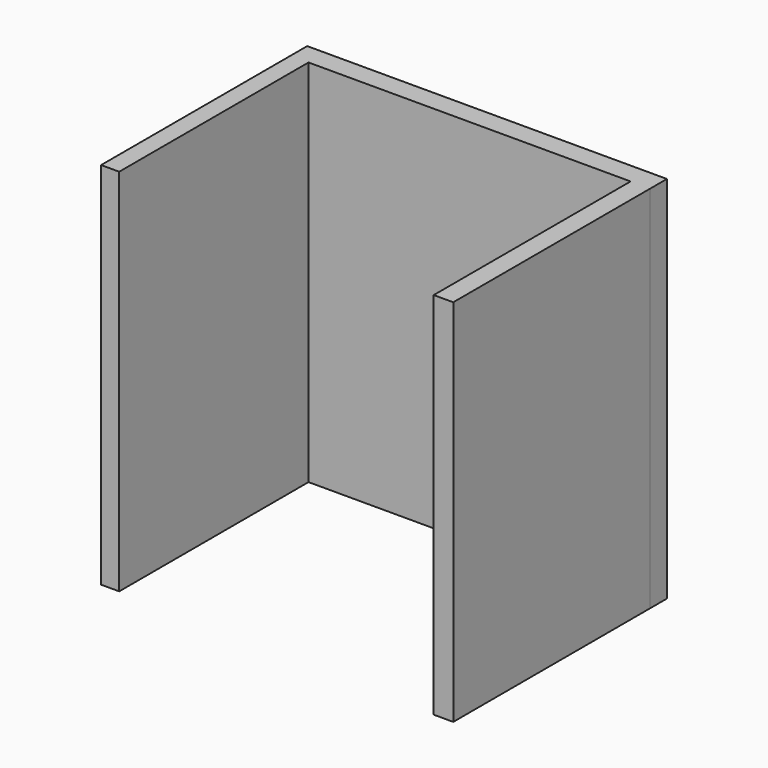
from build123d import *

# Parameters (mm, degrees)
F0_W     = 4.897386
F0_H     = 64.057838
F0_W_2   = 5.289175
F0_H_2   = 66.604478
F1_DEPTH = 100


with BuildPart() as f1:
    # F0 (on Top) → F1 (new body)
    with BuildSketch(Plane.XY):
        Polygon((-48.484143, 72.285449), (-48.484143, 66.604478), (-43.586757, 66.604478), (43.586757, 66.604478), (48.875932, 66.604478), (48.875932, 72.285449), align=None)
        with Locations((-46.03545, 34.575559)):
            Rectangle(F0_W, F0_H)
        with Locations((46.231344, 33.302239)):
            Rectangle(F0_W_2, F0_H_2)
    extrude(amount=F1_DEPTH)


solid = f1.part
